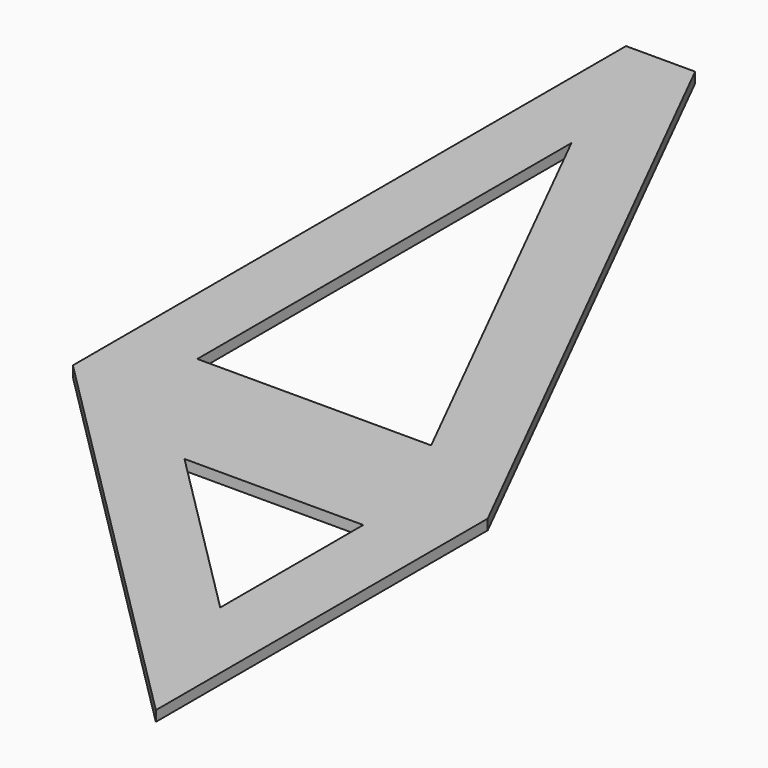
from build123d import *

# Parameters (mm, degrees)
F1_DEPTH = 1.5


with BuildPart() as f1:
    # F0 (on Top) → F1 (new body)
    with BuildSketch(Plane.XY):
        Polygon((60, 0), (0, 0), (60, -60), align=None)
        Polygon((50, -10), (50, -35.857864), (24.142136, -10), align=None, mode=Mode.SUBTRACT)
        Polygon((0, 100), (0, 0), (60, 0), (10, 100), align=None)
        Polygon((43.81966, 10), (10, 10), (10, 77.63932), align=None, mode=Mode.SUBTRACT)
    extrude(amount=F1_DEPTH)


solid = f1.part
